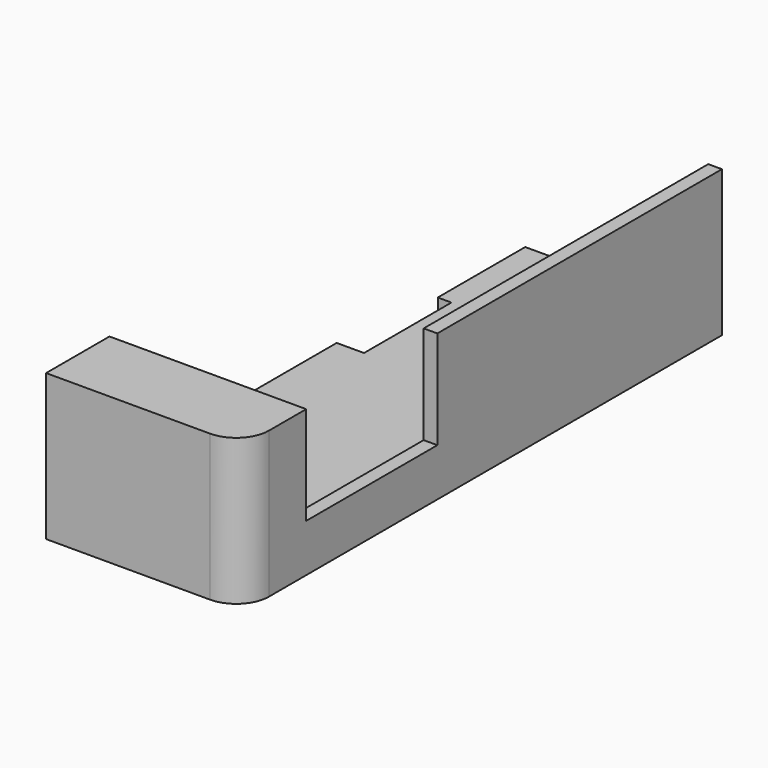
from build123d import *

# Parameters (mm, degrees)
F1_DEPTH = 3.175
F3_DEPTH = 30.7975
F4_W     = 42.545
F4_H     = 15.24
F5_DEPTH = 3.175
F6_W     = 38.1
F6_H     = 22.86
F7_DEPTH = 48.896
F8_W     = 50.8
F8_H     = 5.08
F9_DEPTH = 6.35
F10_R    = 7.62


with BuildPart() as f1:
    # F0 (on Top) → F1 (new body)
    with BuildSketch(Plane.XY):
        Polygon((-10.1557934871, 109.5393011599), (-19.0457934871, 109.5393011599), (-19.0457934871, 84.1393011599), (-15.8707934871, 84.1393011599), (-15.8707934871, 58.7393011599), (-19.0457934871, 58.7393011599), (-22.2207934871, 58.7393011599), (-22.2207934871, 33.3393011599), (-19.0457934871, 33.3393011599), (-15.8707934871, 33.3393011599), (-15.8707934871, 7.9393011599), (-19.0457934871, 7.9393011599), (-22.2207934871, 7.9393011599), (-22.2207934871, -17.4606988401), (-19.0457934871, -17.4606988401), (-19.0457934871, -29.6526988401), (26.6742065129, -29.6526988401), (26.6742065129, 109.5393011599), (15.2442065129, 109.5393011599), (15.2442065129, 115.8893011599), (-10.1557934871, 115.8893011599), align=None)
    extrude(amount=F1_DEPTH)

    # F2 (on face) → F3 (join)
    with BuildSketch(Plane.XY.offset(3.175)):
        Polygon((23.4992065129, -26.4776988401), (-19.0457934871, -26.4776988401), (-19.0457934871, -29.6526988401), (26.6742065129, -29.6526988401), (26.6742065129, 109.5393011599), (23.4992065129, 109.5393011599), align=None)
    extrude(amount=F3_DEPTH)

    # F4 (on face) → F5 (join)
    with BuildSketch(Plane.XY.offset(33.9725)):
        with Locations((2.2267065129, -18.8576988401)):
            Rectangle(F4_W, F4_H)
    extrude(amount=-F5_DEPTH)

    # F6 (on face) → F7 (cut, through all)
    with BuildSketch(Plane.YZ.offset(26.6742065129)):
        with Locations((7.8123011599, 22.5425)):
            Rectangle(F6_W, F6_H)
    extrude(amount=-F7_DEPTH, mode=Mode.SUBTRACT)

    # F8 (on face) → F9 (join)
    with BuildSketch(Plane(origin=(23.4992065129, 0, 0), x_dir=(0, -1, 0), z_dir=(-1, 0, 0))):
        with Locations((-77.6623011599, 15.08125)):
            Rectangle(F8_W, F8_H)
    extrude(amount=F9_DEPTH)

    # F10
    f10_edges = [f1.edges().sort_by_distance(p)[0] for p in [
        (26.674207, -29.652699, 16.98625),
    ]]
    fillet(f10_edges, radius=F10_R)


solid = f1.part
